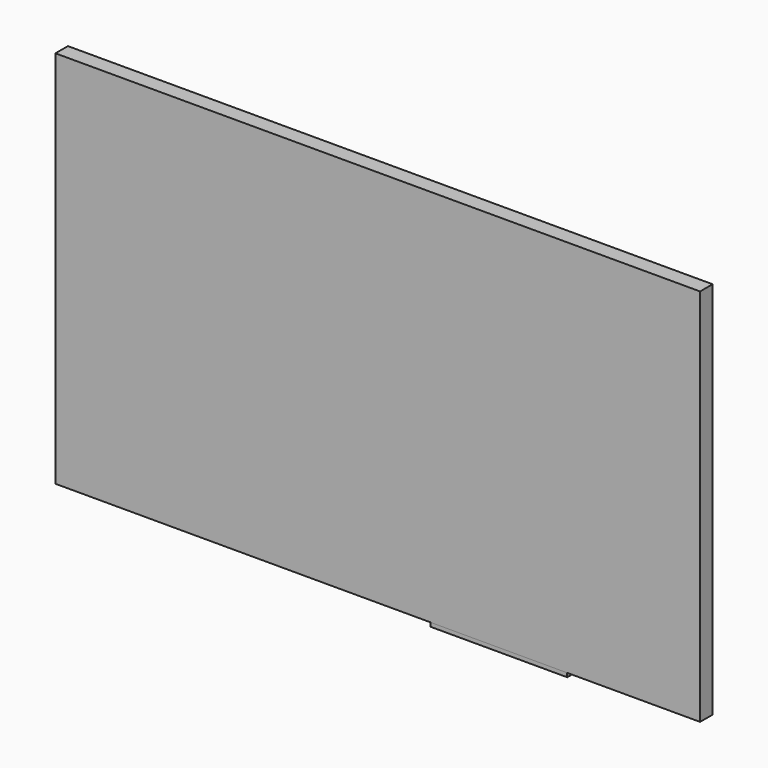
from build123d import *

# Parameters (mm, degrees)
F1_DEPTH = 4
F2_DEPTH = 5
F3_DEPTH = 10


with BuildPart() as f1:
    # F0 (on Front) → F1 (new body)
    with BuildSketch(Plane.XZ):
        Polygon((82.5, 48.5), (-82.5, 48.5), (-82.5, -48.5), (-25.5, -48.5), (-25.5, -28.5), (36.5, -28.5), (36.5, -48.5), (48.5, -48.5), (82.5, -48.5), align=None)
    extrude(amount=-F1_DEPTH)

    # F0 (on Front) → F2 (join)
    with BuildSketch(Plane.XZ):
        Polygon((-25.5, -28.5), (-25.5, -48.5), (13.5, -48.5), (36.5, -48.5), (36.5, -28.5), align=None)
    extrude(amount=-F2_DEPTH)


with BuildPart() as f3:
    # F0 (on Front) → F3 (new body)
    with BuildSketch(Plane.XZ):
        Polygon((48.5, -49.5), (48.5, -48.5), (36.5, -48.5), (13.5, -48.5), (13.5, -49.5), align=None)
    extrude(amount=-F3_DEPTH)


solid = Compound([f1.part, f3.part])
